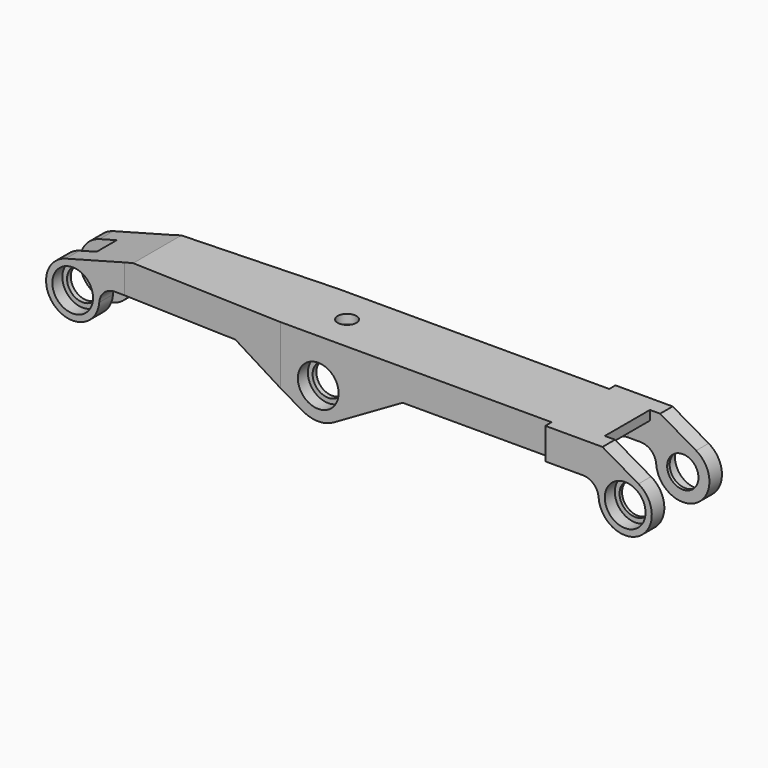
from build123d import *

# Parameters (mm, degrees)
F0_R                   = 5
F1_DEPTH               = 14
F2_W                   = 220
F2_H                   = 50
F3_DEPTH               = 25
F5_DEPTH               = 25
F5_DEPTH_BACK          = 7
F7_DEPTH               = 25
F7_DEPTH_BACK          = 4
F9_DEPTH               = 4
F9_DEPTH_BACK          = 4
F12_DEPTH              = 12
F13_R                  = 2.5
F14_D                  = 6
F18_D                  = 1
F18_DEPTH              = 12
F18_CBORE_D            = 13
F18_CBORE_DEPTH        = 4
F18_TIP                = 0.3004303095
F18_ON_F16_D           = 1
F18_ON_F16_DEPTH       = 12
F18_ON_F16_CBORE_D     = 13
F18_ON_F16_CBORE_DEPTH = 4
F18_ON_F16_TIP         = 0.3004303095
F18_ON_F17_D           = 1
F18_ON_F17_DEPTH       = 12
F18_ON_F17_CBORE_D     = 13
F18_ON_F17_CBORE_DEPTH = 4
F18_ON_F17_TIP         = 0.3004303095
F22_D                  = 1
F22_DEPTH              = 12
F22_CBORE_D            = 13
F22_CBORE_DEPTH        = 4
F22_TIP                = 0.3004303095
F22_ON_F20_D           = 1
F22_ON_F20_DEPTH       = 12
F22_ON_F20_CBORE_D     = 13
F22_ON_F20_CBORE_DEPTH = 4
F22_ON_F20_TIP         = 0.3004303095
F22_ON_F21_D           = 1
F22_ON_F21_DEPTH       = 12
F22_ON_F21_CBORE_D     = 13
F22_ON_F21_CBORE_DEPTH = 4
F22_ON_F21_TIP         = 0.3004303095


with BuildPart() as f1:
    # F0 (on Front) → F1 (new body, symmetric)
    with BuildSketch(Plane.XZ):
        with BuildLine():
            Line((92.751288694, 14), (-60.5927667879, 14))
            Line((-60.5927667879, 14), (-82.1999618834, 8.2103695235))
            ThreePointArc((-82.1999618834, 8.2103695235), (-85.4208481231, -6.5470913868), (-71.5233516925, -0.6296296296))
            ThreePointArc((-71.5233516925, -0.6296296296), (-69.9391570694, 2.664140544), (-66.5370879822, 4))
            Line((-66.5370879822, 4), (-26.9282032303, 4))
            Line((-26.9282032303, 4), (-5, -8.6602540378))
            ThreePointArc((-5, -8.6602540378), (0, -10), (5, -8.6602540378))
            Line((5, -8.6602540378), (26.9282032303, 4))
            Line((26.9282032303, 4), (86.5370879822, 4))
            ThreePointArc((86.5370879822, 4), (89.9391570694, 2.664140544), (91.5233516925, -0.6296296296))
            ThreePointArc((91.5233516925, -0.6296296296), (104.5199051071, -7.1986427765), (104.25, 7.3612159322))
            Line((104.25, 7.3612159322), (92.751288694, 14))
        make_face()
        with Locations((-80, 0)):
            Circle(F0_R, mode=Mode.SUBTRACT)
        Circle(F0_R, mode=Mode.SUBTRACT)
        with Locations((100, 0)):
            Circle(F0_R, mode=Mode.SUBTRACT)
    extrude(amount=F1_DEPTH, both=True)

    # F2 (on face) → F3 (cut)
    with BuildSketch(Plane.XY.offset(14)):
        with Locations((10, 0)):
            Rectangle(F2_W, F2_H)
        Polygon((-63.5, -9.5), (-88.5, -9.5), (-88.5, 9.5), (-63.5, 9.5), (-12, 11.5), (74.5, 11.5), (74.5, 14), (108.5, 14), (108.5, 9), (89.5, 9), (89.5, -9), (108.5, -9), (108.5, -14), (74.5, -14), (74.5, -11.5), (-12, -11.5), align=None, mode=Mode.SUBTRACT)
    extrude(amount=-F3_DEPTH, mode=Mode.SUBTRACT)

    # F4 (on face) → F5 (cut, two sides)
    with BuildSketch(Plane(origin=(0, 0, 4), x_dir=(1, 0, 0), z_dir=(0, 0, -1))) as f5_sk:
        with BuildLine():
            ThreePointArc((74.5, 5.5), (73.6213203436, 7.6213203436), (71.5, 8.5))
            Line((71.5, 8.5), (50.5, 8.5))
            ThreePointArc((50.5, 8.5), (48.3786796564, 7.6213203436), (47.5, 5.5))
            Line((47.5, 5.5), (47.5, -5.5))
            ThreePointArc((47.5, -5.5), (48.3786796564, -7.6213203436), (50.5, -8.5))
            Line((50.5, -8.5), (71.5, -8.5))
            ThreePointArc((71.5, -8.5), (73.6213203436, -7.6213203436), (74.5, -5.5))
            Line((74.5, -5.5), (74.5, 5.5))
        make_face()
        with BuildLine():
            Line((44.5, -6), (44.5, 6))
            ThreePointArc((44.5, 6), (43.767766953, 7.767766953), (42, 8.5))
            Line((42, 8.5), (20, 8.5))
            ThreePointArc((20, 8.5), (18.232233047, 7.767766953), (17.5, 6))
            Line((17.5, 6), (17.5, -6))
            ThreePointArc((17.5, -6), (18.232233047, -7.767766953), (20, -8.5))
            Line((20, -8.5), (42, -8.5))
            ThreePointArc((42, -8.5), (43.767766953, -7.767766953), (44.5, -6))
        make_face()
        with BuildLine():
            Line((89.5, -9), (89.5, 9))
            Line((89.5, 9), (82.5, 9))
            ThreePointArc((82.5, 9), (80.3786796564, 8.1213203436), (79.5, 6))
            Line((79.5, 6), (79.5, -6))
            ThreePointArc((79.5, -6), (80.3786796564, -8.1213203436), (82.5, -9))
            Line((82.5, -9), (89.5, -9))
        make_face()
        with BuildLine():
            Line((-17.5, -5.6851745289), (-17.5, 5.6851745289))
            ThreePointArc((-17.5, 5.6851745289), (-18.2668721376, 7.4869147467), (-20.09701425, 8.1832914668))
            Line((-20.09701425, 8.1832914668), (-52.09701425, 6.9405730202))
            ThreePointArc((-52.09701425, 6.9405730202), (-53.8017402178, 6.1755839447), (-54.5, 4.4424560823))
            Line((-54.5, 4.4424560823), (-54.5, -4.4424560823))
            ThreePointArc((-54.5, -4.4424560823), (-53.8017402178, -6.1755839447), (-52.09701425, -6.9405730202))
            Line((-52.09701425, -6.9405730202), (-20.09701425, -8.1832914668))
            ThreePointArc((-20.09701425, -8.1832914668), (-18.2668721376, -7.4869147467), (-17.5, -5.6851745289))
        make_face()
        with BuildLine():
            Line((-14.5, 1.5), (-14.5, -1.5))
            ThreePointArc((-14.5, -1.5), (-13.1819805153, -4.6819805153), (-10, -6))
            Line((-10, -6), (10, -6))
            ThreePointArc((10, -6), (13.1819805153, -4.6819805153), (14.5, -1.5))
            Line((14.5, -1.5), (14.5, 1.5))
            ThreePointArc((14.5, 1.5), (13.1819805153, 4.6819805153), (10, 6))
            Line((10, 6), (-10, 6))
            ThreePointArc((-10, 6), (-13.1819805153, 4.6819805153), (-14.5, 1.5))
        make_face()
    extrude(amount=F5_DEPTH, mode=Mode.SUBTRACT)
    extrude(f5_sk.sketch, amount=-F5_DEPTH_BACK, mode=Mode.SUBTRACT)

    # F6 (on face) → F7 (cut, two sides)
    with BuildSketch(Plane(origin=(0, 0, 4), x_dir=(1, 0, 0), z_dir=(0, 0, -1))) as f7_sk:
        with BuildLine():
            Line((-88.5, 4), (-88.5, -4))
            Line((-88.5, -4), (-60, -4))
            ThreePointArc((-60, -4), (-58.232233047, -3.267766953), (-57.5, -1.5))
            Line((-57.5, -1.5), (-57.5, 1.5))
            ThreePointArc((-57.5, 1.5), (-58.232233047, 3.267766953), (-60, 4))
            Line((-60, 4), (-88.5, 4))
        make_face()
    extrude(amount=F7_DEPTH, mode=Mode.SUBTRACT)
    extrude(f7_sk.sketch, amount=-F7_DEPTH_BACK, mode=Mode.SUBTRACT)

    # F8 (on Front) → F9 (cut, two sides)
    with BuildSketch(Plane.XZ) as f9_sk:
        with BuildLine():
            Line((-62.9010767594, 1.674937448), (-86.0737760563, 15.0537016249))
            Line((-86.0737760563, 15.0537016249), (-90.8768091461, 6.7346042829))
            Line((-90.8768091461, 6.7346042829), (-84.1196998721, 2.8333854245))
            ThreePointArc((-84.1196998721, 2.8333854245), (-78.5165073914, 4.7748559853), (-75, 0))
            ThreePointArc((-75, 0), (-75.123107113, -1.1026857073), (-75.4863663076, -2.1510720329))
            Line((-75.4863663076, -2.1510720329), (-67.9411956859, -6.5072783225))
            Line((-67.9411956859, -6.5072783225), (-62.9010767594, 1.674937448))
        make_face()
        with BuildLine():
            Line((-75.4863663076, -2.1510720329), (-84.1196998721, 2.8333854245))
            ThreePointArc((-84.1196998721, 2.8333854245), (-82.5, -4.3301270189), (-75.4863663076, -2.1510720329))
        make_face()
        with BuildLine():
            ThreePointArc((-75, 0), (-78.5165073914, 4.7748559853), (-84.1196998721, 2.8333854245))
            Line((-84.1196998721, 2.8333854245), (-75.4863663076, -2.1510720329))
            ThreePointArc((-75.4863663076, -2.1510720329), (-75.123107113, -1.1026857073), (-75, 0))
        make_face()
    extrude(amount=-F9_DEPTH, mode=Mode.SUBTRACT)
    extrude(f9_sk.sketch, amount=F9_DEPTH_BACK, mode=Mode.SUBTRACT)

    # F11 (on offset) → F12 (cut)
    with BuildSketch(Plane.XY.offset(-10)):
        Polygon((-10, -6), (10, -6), (20.6807758659, -6), (20.394064486, 6), (10, 6), (-10, 6), (-21.2499145418, 6), (-20.4144921154, -6), align=None)
    extrude(amount=F12_DEPTH, mode=Mode.SUBTRACT)

    # F13
    f13_edges = [f1.edges().sort_by_distance(p)[0] for p in [
        (-17.519902, -6, 0.284057),
        (17.5, -6, 0.278312),
        (17.5, -6, 6.5),
        (-17.519902, 6, 0.284057),
        (17.5, 6, 0.278312),
        (17.5, 6, 6.5),
    ]]
    fillet(f13_edges, radius=F13_R)

    # F14 (through all)
    with Locations(Plane.XY.offset(14)):
        with Locations((0, 0)):
            Hole(F14_D / 2)

    # F18
    with Locations(Plane.XZ.offset(9.5)):
        with Locations((-80, 0)):
            CounterBoreHole(F18_D / 2, F18_CBORE_D / 2, F18_CBORE_DEPTH, depth=F18_DEPTH)
            with Locations((0, 0, -(F18_DEPTH + F18_TIP / 2))):  # 118° drill point
                Cone(0, F18_D / 2, F18_TIP, mode=Mode.SUBTRACT)

    # F18 on F16
    with Locations(Plane.XZ.offset(11.5)):
        with Locations((0, 0)):
            CounterBoreHole(F18_ON_F16_D / 2, F18_ON_F16_CBORE_D / 2, F18_ON_F16_CBORE_DEPTH, depth=F18_ON_F16_DEPTH)
            with Locations((0, 0, -(F18_ON_F16_DEPTH + F18_ON_F16_TIP / 2))):  # 118° drill point
                Cone(0, F18_ON_F16_D / 2, F18_ON_F16_TIP, mode=Mode.SUBTRACT)

    # F18 on F17
    with Locations(Plane.XZ.offset(14)):
        with Locations((100, 0)):
            CounterBoreHole(F18_ON_F17_D / 2, F18_ON_F17_CBORE_D / 2, F18_ON_F17_CBORE_DEPTH, depth=F18_ON_F17_DEPTH)
            with Locations((0, 0, -(F18_ON_F17_DEPTH + F18_ON_F17_TIP / 2))):  # 118° drill point
                Cone(0, F18_ON_F17_D / 2, F18_ON_F17_TIP, mode=Mode.SUBTRACT)

    # F22
    with Locations(Plane(origin=(0, 14, 0), x_dir=(-1, 0, 0), z_dir=(0, 1, 0))):
        with Locations((-100, 0)):
            CounterBoreHole(F22_D / 2, F22_CBORE_D / 2, F22_CBORE_DEPTH, depth=F22_DEPTH)
            with Locations((0, 0, -(F22_DEPTH + F22_TIP / 2))):  # 118° drill point
                Cone(0, F22_D / 2, F22_TIP, mode=Mode.SUBTRACT)

    # F22 on F20
    with Locations(Plane(origin=(0, 11.5, 0), x_dir=(-1, 0, 0), z_dir=(0, 1, 0))):
        with Locations((0, 0)):
            CounterBoreHole(F22_ON_F20_D / 2, F22_ON_F20_CBORE_D / 2, F22_ON_F20_CBORE_DEPTH, depth=F22_ON_F20_DEPTH)
            with Locations((0, 0, -(F22_ON_F20_DEPTH + F22_ON_F20_TIP / 2))):  # 118° drill point
                Cone(0, F22_ON_F20_D / 2, F22_ON_F20_TIP, mode=Mode.SUBTRACT)

    # F22 on F21
    with Locations(Plane(origin=(0, 9.5, 0), x_dir=(-1, 0, 0), z_dir=(0, 1, 0))):
        with Locations((80, 0)):
            CounterBoreHole(F22_ON_F21_D / 2, F22_ON_F21_CBORE_D / 2, F22_ON_F21_CBORE_DEPTH, depth=F22_ON_F21_DEPTH)
            with Locations((0, 0, -(F22_ON_F21_DEPTH + F22_ON_F21_TIP / 2))):  # 118° drill point
                Cone(0, F22_ON_F21_D / 2, F22_ON_F21_TIP, mode=Mode.SUBTRACT)


solid = f1.part
